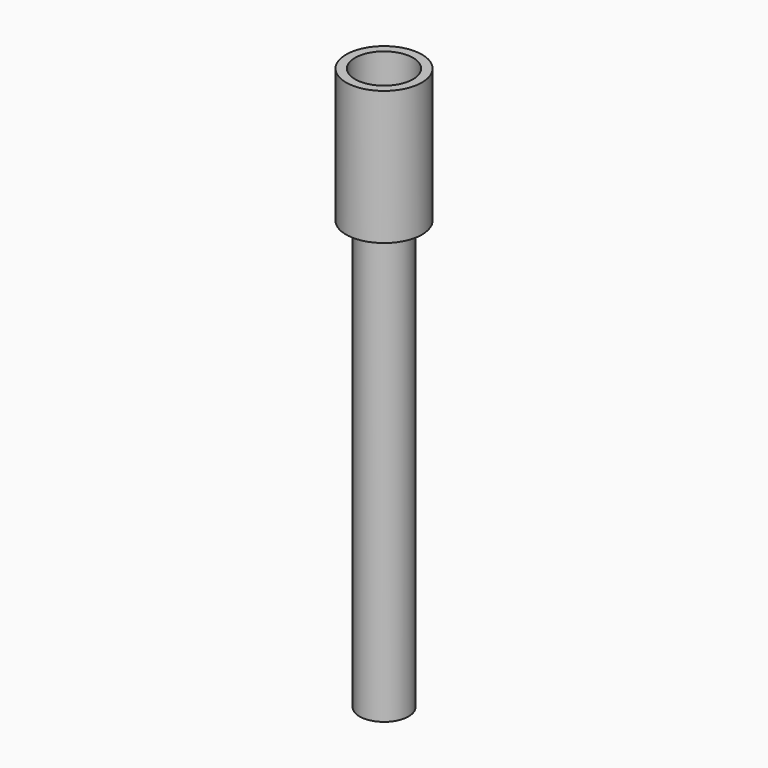
from build123d import *

# Parameters (mm, degrees)
CYLINDER016_R             = 3.25
CYLINDER016_DEPTH         = 12
CYLINDER015_R             = 4.25
CYLINDER015_DEPTH         = 15
CYLINDER017_R             = 2.75
CYLINDER017_DEPTH         = 48
FUSION004_PLACEMENT_ANGLE = 180


with BuildPart() as taladro001:
    # Cylinder016 → Cylinder016 (new body)
    with BuildSketch(Plane.XY):
        Circle(CYLINDER016_R)
    extrude(amount=CYLINDER016_DEPTH)


with BuildPart() as cilindro_exterior001:
    # Cylinder015 → Cylinder015 (new body)
    with BuildSketch(Plane.XY):
        Circle(CYLINDER015_R)
    extrude(amount=CYLINDER015_DEPTH)

    # Cut005: cut taladro001
    add(taladro001.part, mode=Mode.SUBTRACT)


with BuildPart() as fusion004:
    # Cylinder017 → Cylinder017 (new body)
    with BuildSketch(Plane.XY.offset(15)):
        Circle(CYLINDER017_R)
    extrude(amount=CYLINDER017_DEPTH)

    # Fusion004: union Cilindro exterior001
    add(cilindro_exterior001.part)


with BuildPart() as fusion004_1:
    # Fusion004 placement: moved
    add(fusion004.part.moved(Location((41, 167, 52))).rotate(Axis((41, 167, 52), (1, 0, 0)), FUSION004_PLACEMENT_ANGLE))


solid = fusion004_1.part
